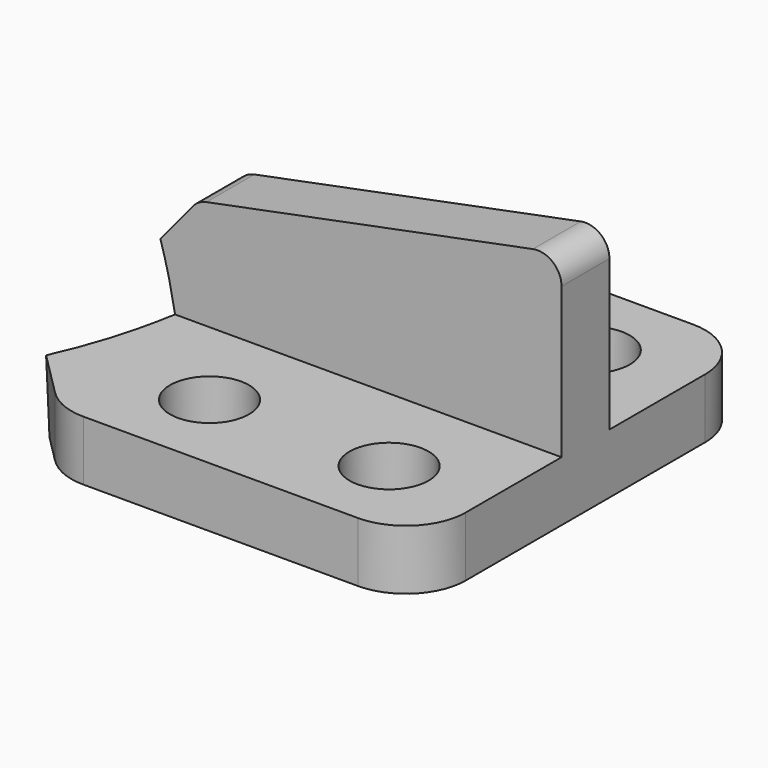
from build123d import *

# Parameters (mm, degrees)
F1_DEPTH  = 5
F3_DEPTH  = 2.5
F4_SIZE   = 5
F5_R      = 2
F6_R      = 2
F7_D      = 6.6
F7_DEPTH  = 43
F7_TIP    = 1.9828400428
F8_R      = 5
F10_R     = 22.5
F11_DEPTH = 25


with BuildPart() as f1:
    # F0 (on Top) → F1 (new body)
    with BuildSketch(Plane.XY):
        with BuildLine():
            Line((54.1421356237, 17.5), (24.1421356237, 17.5))
            Line((24.1421356237, 17.5), (18.8804864575, 12.2383508337))
            ThreePointArc((18.8804864575, 12.2383508337), (22.5, 0), (18.8804864575, -12.2383508337))
            Line((18.8804864575, -12.2383508337), (24.1421356237, -17.5))
            Line((24.1421356237, -17.5), (54.1421356237, -17.5))
            Line((54.1421356237, -17.5), (54.1421356237, 17.5))
        make_face()
        with BuildLine():
            ThreePointArc((18.8804864575, -12.2383508337), (22.5, 0), (18.8804864575, 12.2383508337))
            Line((18.8804864575, 12.2383508337), (18.8804864575, -12.2383508337))
        make_face()
    extrude(amount=F1_DEPTH)

    # F2 (on Front) → F3 (join, symmetric)
    with BuildSketch(Plane.XZ):
        Polygon((54.1421356237, 20), (18.8804864575, 13), (18.8804864575, 5), (54.1421356237, 5), align=None)
    extrude(amount=F3_DEPTH, both=True)

    # F4
    f4_edges = [f1.edges().sort_by_distance(p)[0] for p in [
        (18.880486, 0, 13),
    ]]
    chamfer(f4_edges, length=F4_SIZE)

    # F5
    f5_edges = [f1.edges().sort_by_distance(p)[0] for p in [
        (23.784784, 0, 13.973581),
    ]]
    fillet(f5_edges, radius=F5_R)

    # F6
    f6_edges = [f1.edges().sort_by_distance(p)[0] for p in [
        (54.142136, 0, 20),
    ]]
    fillet(f6_edges, radius=F6_R)

    # F7
    with Locations(Plane(origin=(0, 0, 0), x_dir=(1, 0, 0), z_dir=(0, 0, -1))):
        with Locations((31.1421356237, -10.5), (46.1421356237, -10.5), (46.1421356237, 10.5), (31.1421356237, 10.5)):
            Hole(F7_D / 2, depth=F7_DEPTH)
            with Locations((0, 0, -(F7_DEPTH + F7_TIP / 2))):  # 118° drill point
                Cone(0, F7_D / 2, F7_TIP, mode=Mode.SUBTRACT)

    # F8
    f8_edges = [f1.edges().sort_by_distance(p)[0] for p in [
        (24.142136, -17.5, 2.5),
        (24.142136, 17.5, 2.5),
        (54.142136, -17.5, 2.5),
        (54.142136, 17.5, 2.5),
    ]]
    fillet(f8_edges, radius=F8_R)

    # F10 (on face) → F11 (cut, symmetric)
    with BuildSketch(Plane(origin=(0, 0, 0), x_dir=(1, 0, 0), z_dir=(0, -0.7071067812, -0.7071067812))):
        Circle(F10_R)
    extrude(amount=F11_DEPTH, both=True, mode=Mode.SUBTRACT)


solid = f1.part
